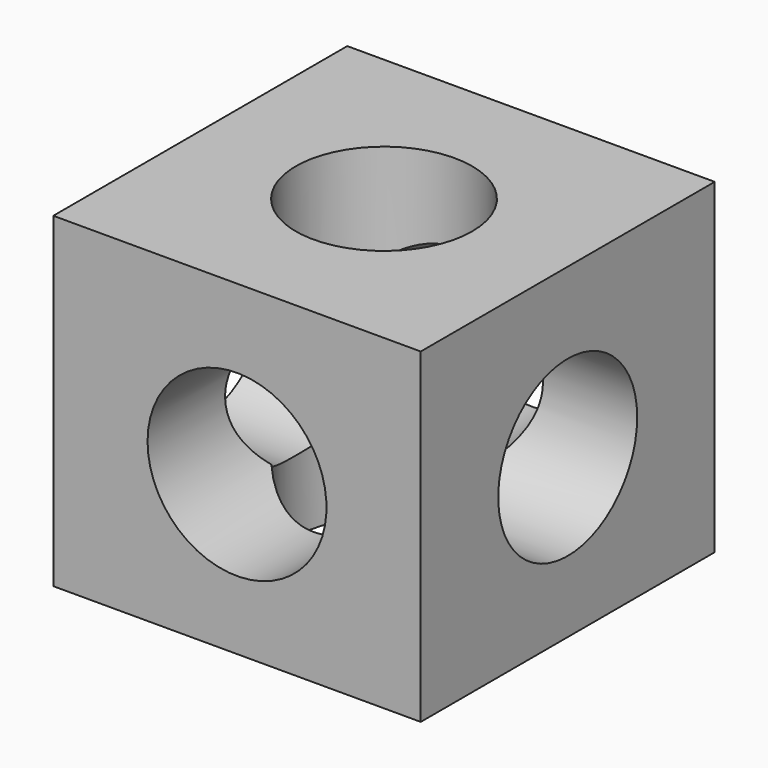
from build123d import *

# Parameters (mm, degrees)
F0_W     = 80
F0_H     = 80
F1_DEPTH = 71
F2_R     = 18.90942
F3_DEPTH = 75
F4_DEPTH = 135
F5_R     = 19.477366
F6_DEPTH = 94
F7_R     = 19.205649
F8_DEPTH = 78


with BuildPart() as f1:
    # F0 (on Top) → F1 (new body)
    with BuildSketch(Plane.XY):
        Rectangle(F0_W, F0_H)
    extrude(amount=F1_DEPTH)

    # F2 (on face) → F3 (cut)
    with BuildSketch(Plane.YZ.offset(40)):
        with Locations((0, 34.456834)):
            Circle(F2_R)
    extrude(amount=-F3_DEPTH, mode=Mode.SUBTRACT)

    # F2 (on face) → F4 (cut)
    with BuildSketch(Plane.YZ.offset(40)):
        with Locations((0, 34.456834)):
            Circle(F2_R)
    extrude(amount=-F4_DEPTH, mode=Mode.SUBTRACT)

    # F5 (on face) → F6 (cut)
    with BuildSketch(Plane(origin=(0, 40, 0), x_dir=(-1, 0, 0), z_dir=(0, 1, 0))):
        with Locations((0, 34.429017)):
            Circle(F5_R)
    extrude(amount=-F6_DEPTH, mode=Mode.SUBTRACT)

    # F7 (on face) → F8 (cut)
    with BuildSketch(Plane.XY.offset(71)):
        Circle(F7_R)
    extrude(amount=-F8_DEPTH, mode=Mode.SUBTRACT)


solid = f1.part
